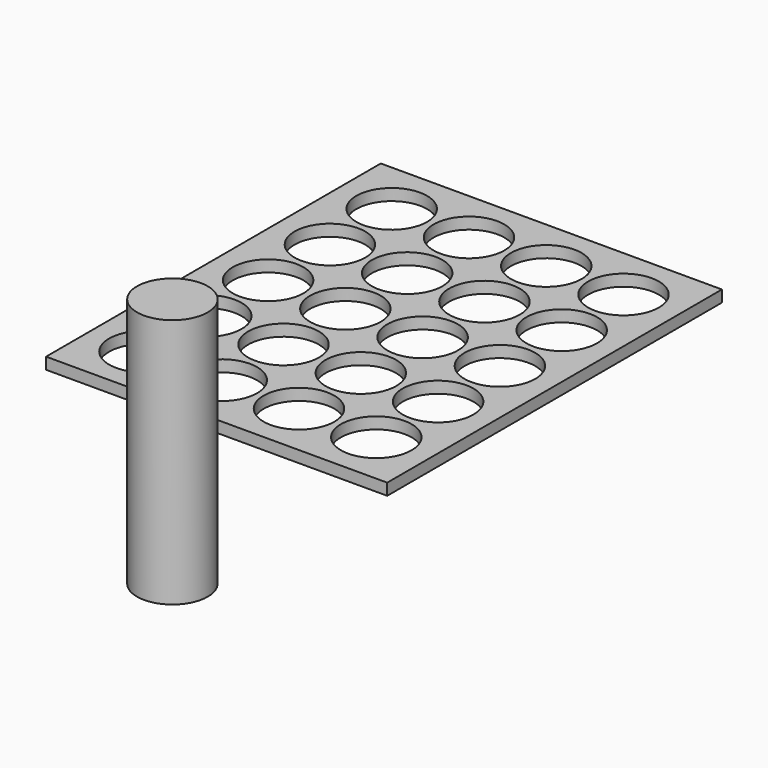
from build123d import *

# Parameters (mm, degrees)
F0_R     = 9.15
F1_DEPTH = 64.8
F2_R     = 9.15
F3_DEPTH = 3


with BuildPart() as f1:
    # F0 (on Top) → F1 (new body)
    with BuildSketch(Plane.XY):
        Circle(F0_R)
    extrude(amount=F1_DEPTH)


with BuildPart() as f3:
    # F2 (on Top) → F3 (new body)
    with BuildSketch(Plane.XY):
        Polygon((-78.420075, 165.450537), (-78.420075, 71.300537), (-78.420075, 57.150537), (9.879925, 57.150537), (9.879925, 165.450537), align=None)
        with BuildLine():
            ThreePointArc((-73.420075, 71.300537), (-64.270075, 80.450537), (-55.120075, 71.300537))
            ThreePointArc((-55.120075, 71.300537), (-64.270075, 62.150537), (-73.420075, 71.300537))
        make_face(mode=Mode.SUBTRACT)
        with Locations((-44.270075, 71.300537)):
            Circle(F2_R, mode=Mode.SUBTRACT)
        with Locations((-64.270075, 91.300537)):
            Circle(F2_R, mode=Mode.SUBTRACT)
        with Locations((-44.270075, 91.300537)):
            Circle(F2_R, mode=Mode.SUBTRACT)
        with Locations((-24.270075, 71.300537)):
            Circle(F2_R, mode=Mode.SUBTRACT)
        with Locations((-4.270075, 71.300537)):
            Circle(F2_R, mode=Mode.SUBTRACT)
        with Locations((-24.270075, 91.300537)):
            Circle(F2_R, mode=Mode.SUBTRACT)
        with Locations((-4.270075, 91.300537)):
            Circle(F2_R, mode=Mode.SUBTRACT)
        with Locations((-64.270075, 111.300537)):
            Circle(F2_R, mode=Mode.SUBTRACT)
        with Locations((-64.270075, 131.300537)):
            Circle(F2_R, mode=Mode.SUBTRACT)
        with Locations((-44.270075, 111.300537)):
            Circle(F2_R, mode=Mode.SUBTRACT)
        with Locations((-44.270075, 131.300537)):
            Circle(F2_R, mode=Mode.SUBTRACT)
        with Locations((-64.270075, 151.300537)):
            Circle(F2_R, mode=Mode.SUBTRACT)
        with Locations((-44.270075, 151.300537)):
            Circle(F2_R, mode=Mode.SUBTRACT)
        with Locations((-24.270075, 111.300537)):
            Circle(F2_R, mode=Mode.SUBTRACT)
        with Locations((-24.270075, 131.300537)):
            Circle(F2_R, mode=Mode.SUBTRACT)
        with Locations((-4.270075, 111.300537)):
            Circle(F2_R, mode=Mode.SUBTRACT)
        with Locations((-4.270075, 131.300537)):
            Circle(F2_R, mode=Mode.SUBTRACT)
        with Locations((-24.270075, 151.300537)):
            Circle(F2_R, mode=Mode.SUBTRACT)
        with Locations((-4.270075, 151.300537)):
            Circle(F2_R, mode=Mode.SUBTRACT)
    extrude(amount=F3_DEPTH)


solid = Compound([f1.part, f3.part])
